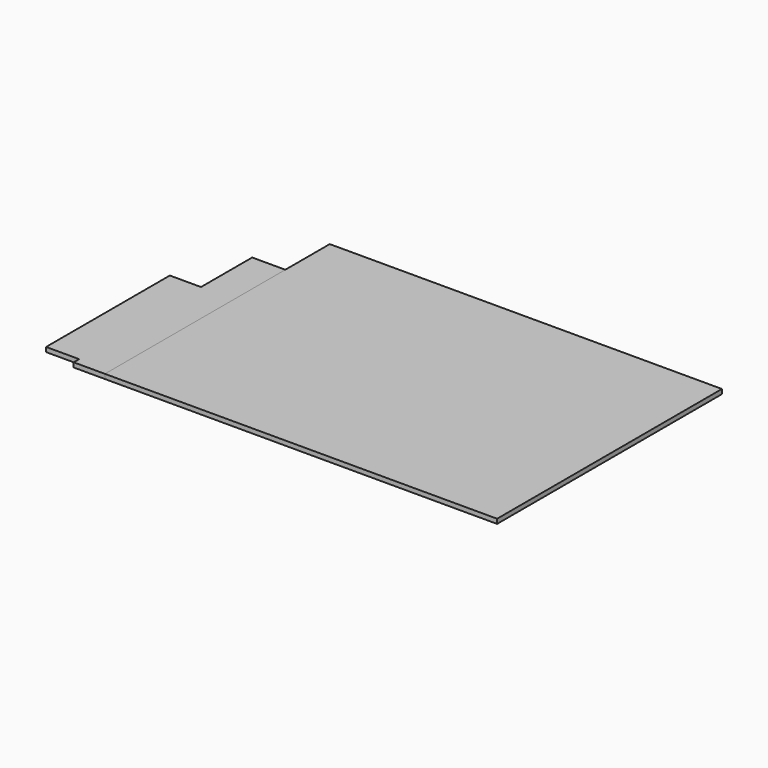
from build123d import *

# Parameters (mm, degrees)
F0_W      = 171.65
F0_H      = 100
F1_DEPTH  = 2
F1_FACE_W = 171.65
F1_FACE_H = 2
F2_DEPTH  = 23
F4_DEPTH  = 2


with BuildPart() as f1:
    # F0 (on Top) → F1 (new body)
    with BuildSketch(Plane.XY):
        with Locations((-12.856778, 11.501423)):
            Rectangle(F0_W, F0_H)
    extrude(amount=F1_DEPTH)

    # F1_face (on face) → F2 (join)
    with BuildSketch(Plane(origin=(-12.856778, 61.501423, 1), x_dir=(-1, 0, 0), z_dir=(0, 1, 0))):
        Rectangle(F1_FACE_W, F1_FACE_H)
    extrude(amount=F2_DEPTH)


with BuildPart() as f4:
    # F3 (on face) → F4 (new body)
    with BuildSketch(Plane(origin=(0, 0, 0), x_dir=(1, 0, 0), z_dir=(0, 0, -1))):
        Polygon((-98.681778, -60.201423), (-98.681778, 38.498577), (-112.331778, 38.498577), (-112.331778, 35.498577), (-126.831778, 35.498577), (-126.831778, -32.201423), (-113.181778, -32.201423), (-113.181778, -60.201423), align=None)
    extrude(amount=-F4_DEPTH)


solid = Compound([f1.part, f4.part])
